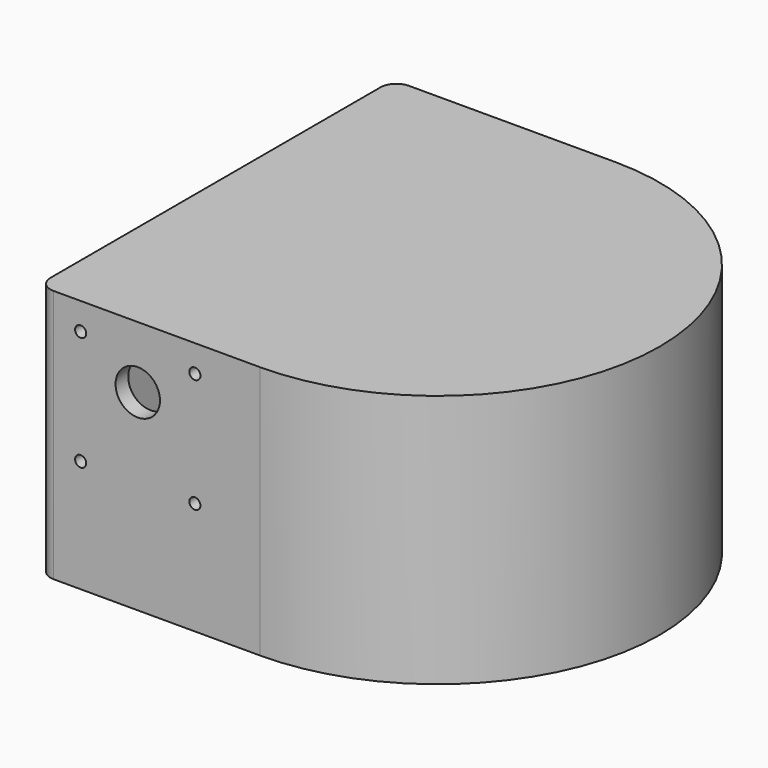
from build123d import *

# Parameters (mm, degrees)
PAD_DEPTH       = 80
POCKET_DEPTH    = 75
SKETCH002_R     = 7
SKETCH002_R_2   = 1.75
POCKET001_DEPTH = 140


with BuildPart() as part:
    # Sketch → Pad (new body)
    with BuildSketch(Plane.XY):
        with BuildLine():
            Line((0, 70), (-65, 70))
            ThreePointArc((-65, 70), (-68.535534, 68.535534), (-70, 65))
            Line((-70, 65), (-70, -65))
            ThreePointArc((-70, -65), (-68.535534, -68.535534), (-65, -70))
            Line((-65, -70), (0, -70))
            ThreePointArc((0, -70), (70, 0), (0, 70))
        make_face()
    extrude(amount=PAD_DEPTH)

    # Sketch001 (on Face7 of Pad) → Pocket (cut)
    with BuildSketch(Plane(origin=(0, 0, 0), x_dir=(1, 0, 0), z_dir=(0, 0, -1))):
        with BuildLine():
            ThreePointArc((0, -65), (65.000059, 0), (0, 65))
            Line((0, 65), (-60, 65))
            ThreePointArc((-60, 65), (-63.535534, 63.535534), (-65, 60))
            Line((-65, 60), (-65, -60))
            ThreePointArc((-65, -60), (-63.535534, -63.535534), (-60, -65))
            Line((-60, -65), (0, -65))
        make_face()
    extrude(amount=-POCKET_DEPTH, mode=Mode.SUBTRACT)

    # Sketch002 (on Face6 of Pocket) → Pocket001 (cut)
    with BuildSketch(Plane.XZ.offset(70)):
        with Locations((-38.5, 60.5)):
            Circle(SKETCH002_R)
        with Locations((-56.5, 71.5)):
            Circle(SKETCH002_R_2)
        with Locations((-56.5, 35.5)):
            Circle(SKETCH002_R_2)
        with Locations((-20.5, 71.5)):
            Circle(SKETCH002_R_2)
        with Locations((-20.5, 35.5)):
            Circle(SKETCH002_R_2)
    extrude(amount=-POCKET001_DEPTH, mode=Mode.SUBTRACT)


solid = part.part
